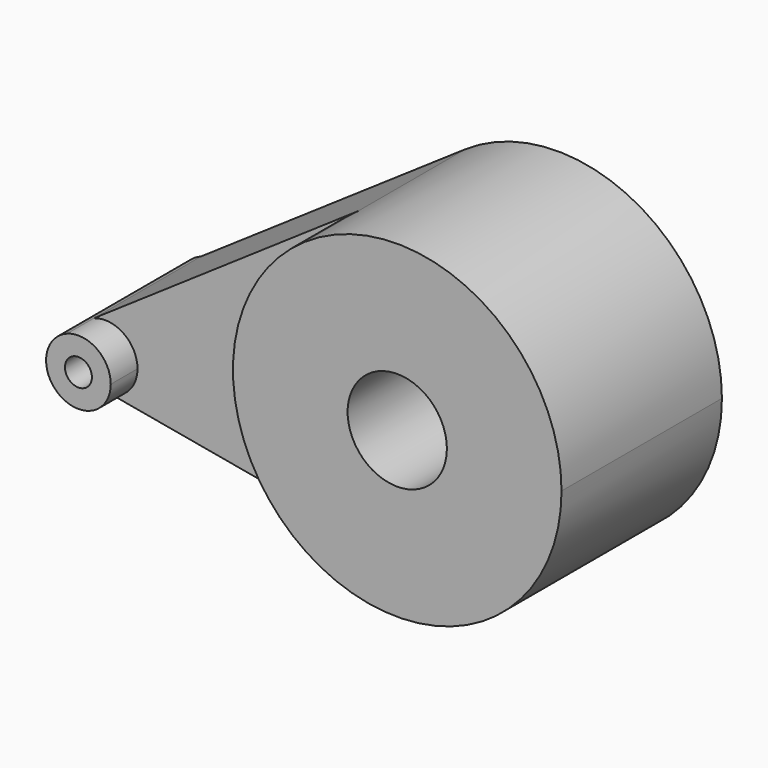
from build123d import *

# Parameters (mm, degrees)
F0_R     = 2.558436
F0_R_2   = 9.432354
F1_DEPTH = 31.75
F2_DEPTH = 25.4
F3_DEPTH = 38.1


with BuildPart() as f1:
    # F0 (on Front) → F1 (new body)
    with BuildSketch(Plane.XZ):
        with BuildLine():
            ThreePointArc((-41.028275, 4.084268), (-37.673218, 6.264085), (-36.370888, 10.047198))
            ThreePointArc((-36.370888, 10.047198), (-39.007807, 15.092911), (-44.655812, 15.808872))
            ThreePointArc((-44.655812, 15.808872), (-48.388119, 8.230641), (-41.028275, 4.084268))
        make_face()
        with Locations((-42.516802, 10.047198)):
            Circle(F0_R, mode=Mode.SUBTRACT)
        with BuildLine():
            ThreePointArc((54.364225, 24.275498), (37.729792, 51.877228), (5.554196, 50.063152))
            ThreePointArc((5.554196, 50.063152), (-7.381061, 17.752772), (17.628982, -6.450104))
            ThreePointArc((17.628982, -6.450104), (43.175199, 0.330036), (54.364225, 24.275498))
        make_face()
        with Locations((23.147054, 24.275498)):
            Circle(F0_R_2, mode=Mode.SUBTRACT)
    extrude(amount=F1_DEPTH)


with BuildPart() as f2:
    # F0 (on Front) → F2 (new body)
    with BuildSketch(Plane.XZ):
        with BuildLine():
            ThreePointArc((-44.655812, 15.808872), (-39.007807, 15.092911), (-36.370888, 10.047198))
            ThreePointArc((-36.370888, 10.047198), (-37.673218, 6.264085), (-41.028275, 4.084268))
            Line((-41.028275, 4.084268), (17.628982, -6.450104))
            ThreePointArc((17.628982, -6.450104), (-7.381061, 17.752772), (5.554196, 50.063152))
            Line((5.554196, 50.063152), (-44.655812, 15.808872))
        make_face()
    extrude(amount=F2_DEPTH)


with BuildPart() as f3:
    # F0 (on Front) → F3 (new body)
    with BuildSketch(Plane.XZ):
        with BuildLine():
            ThreePointArc((54.364225, 24.275498), (37.729792, 51.877228), (5.554196, 50.063152))
            ThreePointArc((5.554196, 50.063152), (-7.381061, 17.752772), (17.628982, -6.450104))
            ThreePointArc((17.628982, -6.450104), (43.175199, 0.330036), (54.364225, 24.275498))
        make_face()
        with Locations((23.147054, 24.275498)):
            Circle(F0_R_2, mode=Mode.SUBTRACT)
    extrude(amount=F3_DEPTH)


solid = Compound([f1.part, f2.part, f3.part])
